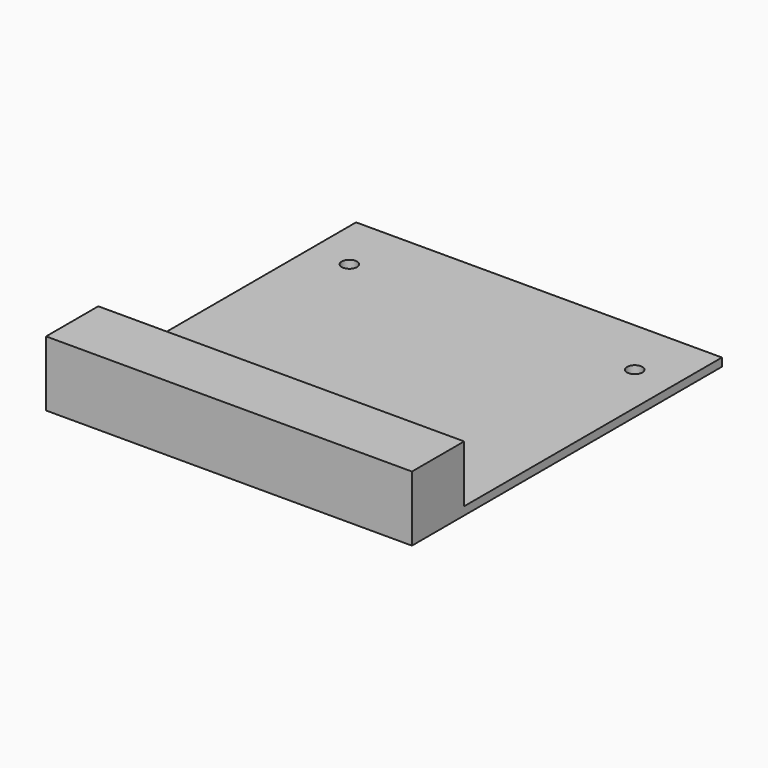
from build123d import *

# Parameters (mm, degrees)
F0_W     = 89.7
F0_H     = 95
F1_DEPTH = 2
F2_R     = 1.875
F3_DEPTH = 2.001
F4_W     = 89.7
F4_H     = 16
F5_DEPTH = 14


with BuildPart() as f1:
    # F0 (on Top) → F1 (new body)
    with BuildSketch(Plane.XY):
        Rectangle(F0_W, F0_H)
    extrude(amount=F1_DEPTH)

    # F2 (on face) → F3 (cut, through all)
    with BuildSketch(Plane.XY.offset(2)):
        with Locations((-34.975, 33.125)):
            Circle(F2_R)
        with Locations((34.975, 33.125)):
            Circle(F2_R)
    extrude(amount=-F3_DEPTH, mode=Mode.SUBTRACT)

    # F4 (on face) → F5 (join)
    with BuildSketch(Plane.XY.offset(2)):
        with Locations((0, -39.5)):
            Rectangle(F4_W, F4_H)
    extrude(amount=F5_DEPTH)


solid = f1.part
